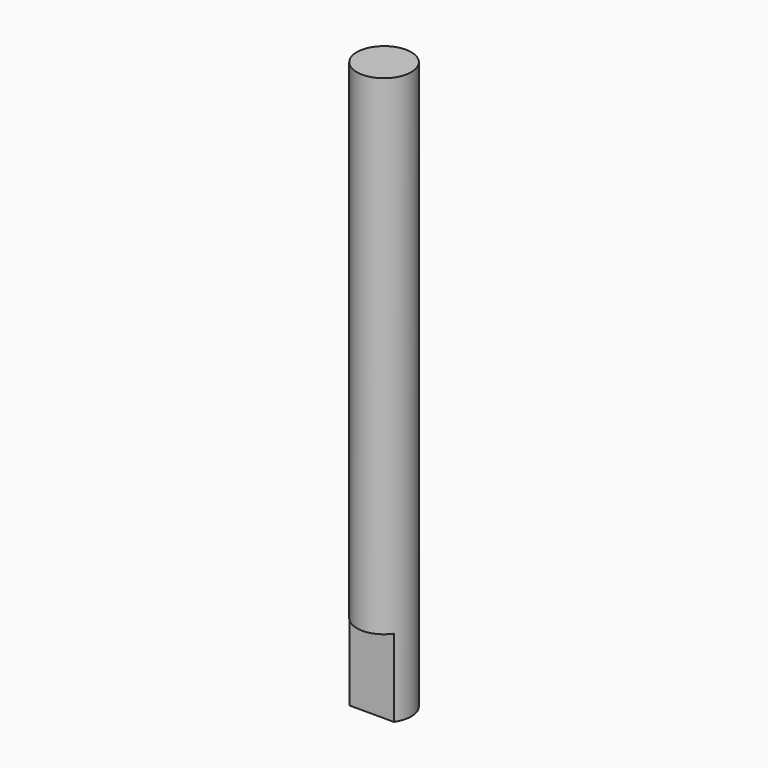
from build123d import *

# Parameters (mm, degrees)
EXTRUDE004_DEPTH  = 1
CYLINDER005_R     = 0.35
CYLINDER005_DEPTH = 7.3


with BuildPart() as extrude004:
    # Sketch (on Cylinder) → Extrude004 (new body)
    with BuildSketch(Plane.XY.offset(-1.1)):
        with BuildLine():
            ThreePointArc((-0.287228, -0.2), (0, -0.35), (0.287228, -0.2))
            Line((-0.287228, -0.2), (0.287228, -0.2))
        make_face()
    extrude(amount=EXTRUDE004_DEPTH)


with BuildPart() as shaft:
    # Cylinder005 → Cylinder005 (new body)
    with BuildSketch(Plane.XY.offset(-1.1)):
        Circle(CYLINDER005_R)
    extrude(amount=CYLINDER005_DEPTH)

    # Cut005: cut Extrude004
    add(extrude004.part, mode=Mode.SUBTRACT)


solid = shaft.part
